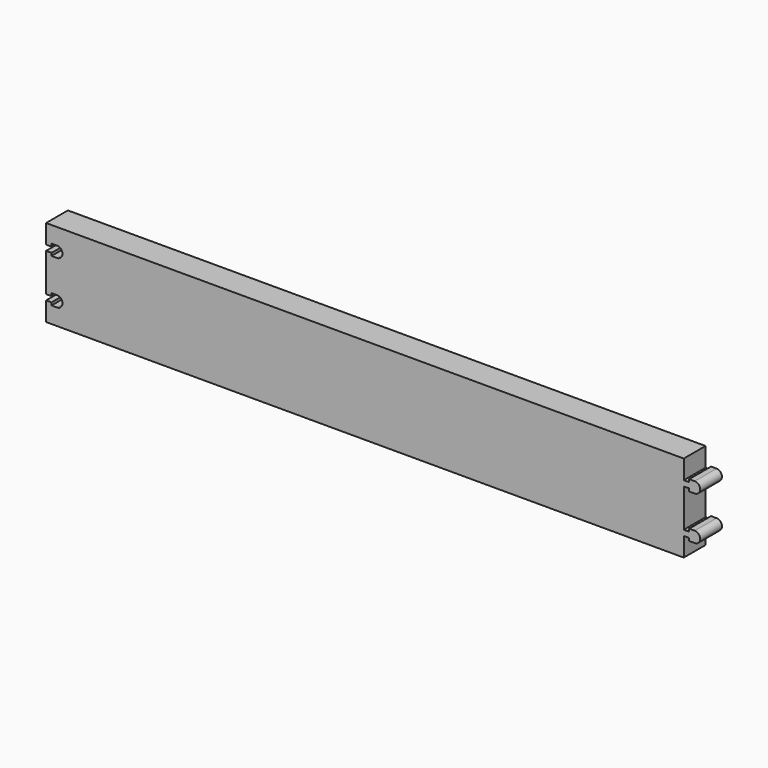
from build123d import *

# Parameters (mm, degrees)
F1_DEPTH = 6.35


with BuildPart() as f1:
    # F0 (on Front) → F1 (new body)
    with BuildSketch(Plane.XZ):
        with BuildLine():
            Line((-76.2, -10.16), (72.39, -10.16))
            Line((72.39, -10.16), (72.39, -5.715))
            Line((72.39, -5.715), (73.66, -5.715))
            Line((73.66, -5.715), (73.66, -6.35))
            Line((73.66, -6.35), (74.93, -6.35))
            ThreePointArc((74.93, -6.35), (76.2, -5.08), (74.93, -3.81))
            Line((74.93, -3.81), (73.66, -3.81))
            Line((73.66, -3.81), (73.66, -4.445))
            Line((73.66, -4.445), (72.39, -4.445))
            Line((72.39, -4.445), (72.39, 4.445))
            Line((72.39, 4.445), (73.66, 4.445))
            Line((73.66, 4.445), (73.66, 3.81))
            Line((73.66, 3.81), (74.93, 3.81))
            ThreePointArc((74.93, 3.81), (76.2, 5.08), (74.93, 6.35))
            Line((74.93, 6.35), (73.66, 6.35))
            Line((73.66, 6.35), (73.66, 5.715))
            Line((73.66, 5.715), (72.39, 5.715))
            Line((72.39, 5.715), (72.39, 10.16))
            Line((72.39, 10.16), (-76.2, 10.16))
            Line((-76.2, 10.16), (-76.2, 5.715))
            Line((-76.2, 5.715), (-74.93, 5.715))
            Line((-74.93, 5.715), (-74.93, 6.35))
            Line((-74.93, 6.35), (-73.66, 6.35))
            ThreePointArc((-73.66, 6.35), (-72.39, 5.08), (-73.66, 3.81))
            Line((-73.66, 3.81), (-74.93, 3.81))
            Line((-74.93, 3.81), (-74.93, 4.445))
            Line((-74.93, 4.445), (-76.2, 4.445))
            Line((-76.2, 4.445), (-76.2, -4.445))
            Line((-76.2, -4.445), (-74.93, -4.445))
            Line((-74.93, -4.445), (-74.93, -3.81))
            Line((-74.93, -3.81), (-73.66, -3.81))
            ThreePointArc((-73.66, -3.81), (-72.39, -5.08), (-73.66, -6.35))
            Line((-73.66, -6.35), (-74.93, -6.35))
            Line((-74.93, -6.35), (-74.93, -5.715))
            Line((-74.93, -5.715), (-76.2, -5.715))
            Line((-76.2, -5.715), (-76.2, -10.16))
        make_face()
    extrude(amount=F1_DEPTH)


solid = f1.part
